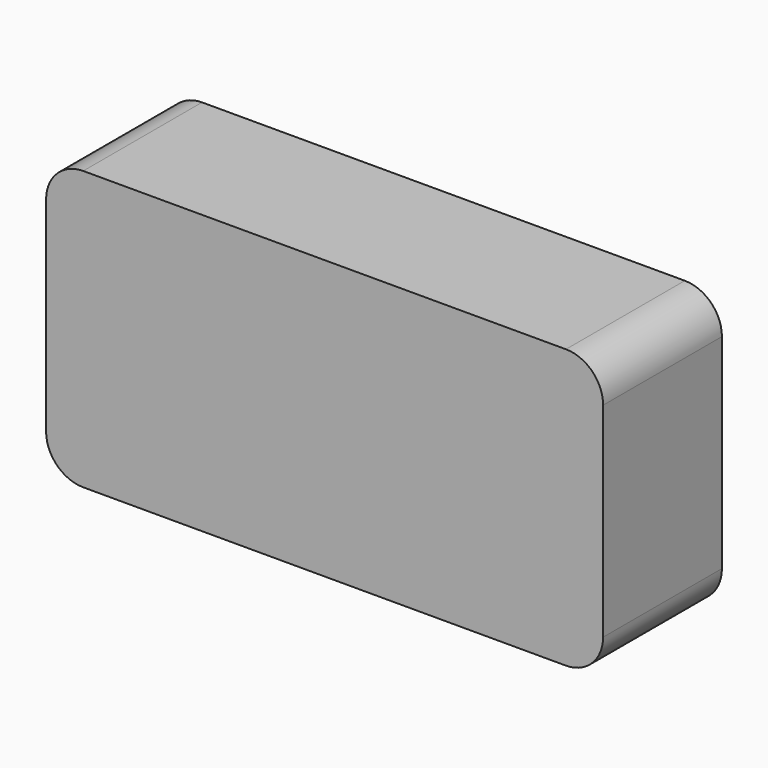
from build123d import *

# Parameters (mm, degrees)
PAD_DEPTH    = 400
POCKET_DEPTH = 350
FILLET_R     = 100


with BuildPart() as part:
    # Sketch → Pad (new body)
    with BuildSketch(Plane.XZ):
        with BuildLine():
            Line((100, 0), (1400, 0))
            ThreePointArc((1400, 0), (1470.710678, 29.289322), (1500, 100))
            Line((1500, 100), (1500, 650))
            ThreePointArc((1500, 650), (1470.710678, 720.710678), (1400, 750))
            Line((1400, 750), (100, 750))
            ThreePointArc((100, 750), (29.289322, 720.710678), (0, 650))
            Line((0, 650), (0, 100))
            ThreePointArc((0, 100), (29.289322, 29.289322), (100, 0))
        make_face()
    extrude(amount=PAD_DEPTH)

    # Sketch001 (on Face9 of Pad) → Pocket (cut)
    with BuildSketch(Plane(origin=(0, 0, 0), x_dir=(1, 0, 0), z_dir=(0, 1, 0))):
        with BuildLine():
            Line((80, -130), (80, -629.552775))
            ThreePointArc((80, -629.552775), (94.644661, -664.908114), (130, -679.552775))
            Line((130, -679.552775), (1369.052368, -679.552775))
            ThreePointArc((1369.052368, -679.552775), (1404.407707, -664.908114), (1419.052368, -629.552775))
            Line((1419.052368, -629.552775), (1419.052368, -130))
            ThreePointArc((1419.052368, -130), (1404.407707, -94.644661), (1369.052368, -80))
            Line((1369.052368, -80), (130, -80))
            ThreePointArc((130, -80), (94.644661, -94.644661), (80, -130))
        make_face()
    extrude(amount=-POCKET_DEPTH, mode=Mode.SUBTRACT)

    # Fillet
    fillet_edges = [part.edges().sort_by_distance(p)[0] for p in [
        (80, -350, 379.776388),
        (94.644661, -350, 664.908114),
        (749.526184, -350, 679.552775),
        (1404.407707, -350, 664.908114),
        (1419.052368, -350, 379.776388),
        (1404.407707, -350, 94.644661),
        (749.526184, -350, 80),
        (94.644661, -350, 94.644661),
    ]]
    fillet(fillet_edges, radius=FILLET_R)


solid = part.part
